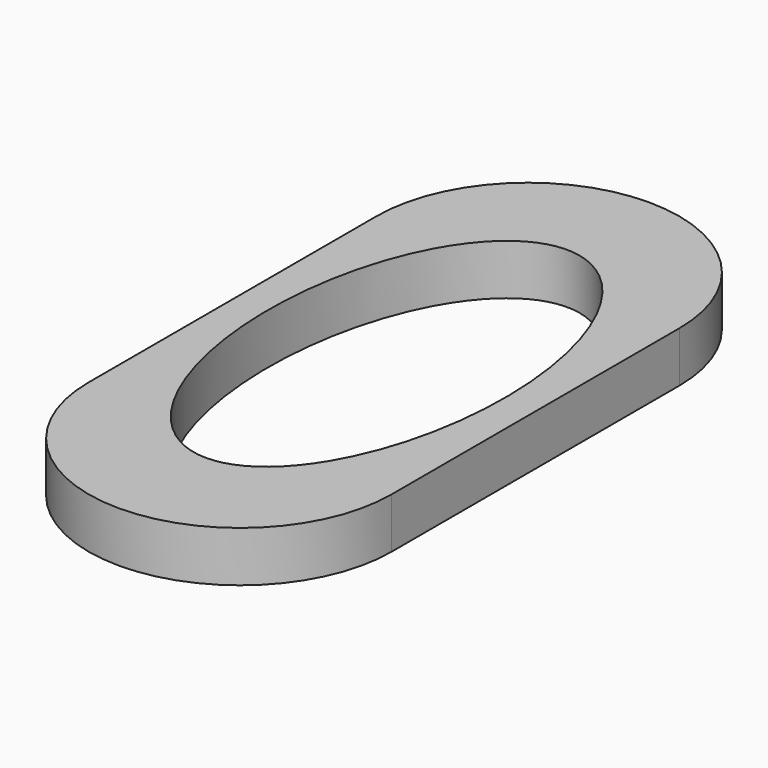
from build123d import *

# Parameters (mm, degrees)
F0_W     = 152.4
F0_H     = 180.85149
F1_DEPTH = 25.4
F3_DEPTH = 25.4


with BuildPart() as f1:
    # F0 (on Top) → F1 (new body)
    with BuildSketch(Plane.XY):
        with Locations((0, -90.425745)):
            Rectangle(F0_W, F0_H)
        with BuildLine():
            Line((-76.2, 0), (76.2, 0))
            ThreePointArc((76.2, 0), (0, 76.2), (-76.2, 0))
        make_face()
        with BuildLine():
            ThreePointArc((-76.2, -180.85149), (0, -257.05149), (76.2, -180.85149))
            Line((76.2, -180.85149), (-76.2, -180.85149))
        make_face()
    extrude(amount=F1_DEPTH)

    # F2 (on face) → F3 (cut)
    with BuildSketch(Plane.XY.offset(25.4)):
        with BuildLine():
            add(Edge.make_bspline(
                [(0, -202.176705), (103.319082, -202.176705), (51.659541, -32.106739), (0, 137.963228), (-51.659541, -32.106739), (-103.319082, -202.176705), (0, -202.176705)],
                knots=[0, 0, 0, 2.094395, 2.094395, 4.18879, 4.18879, 6.283185, 6.283185, 6.283185], degree=2, weights=[1, 0.5, 1, 0.5, 1, 0.5, 1]))
        make_face()
    extrude(amount=-F3_DEPTH, mode=Mode.SUBTRACT)


solid = f1.part
